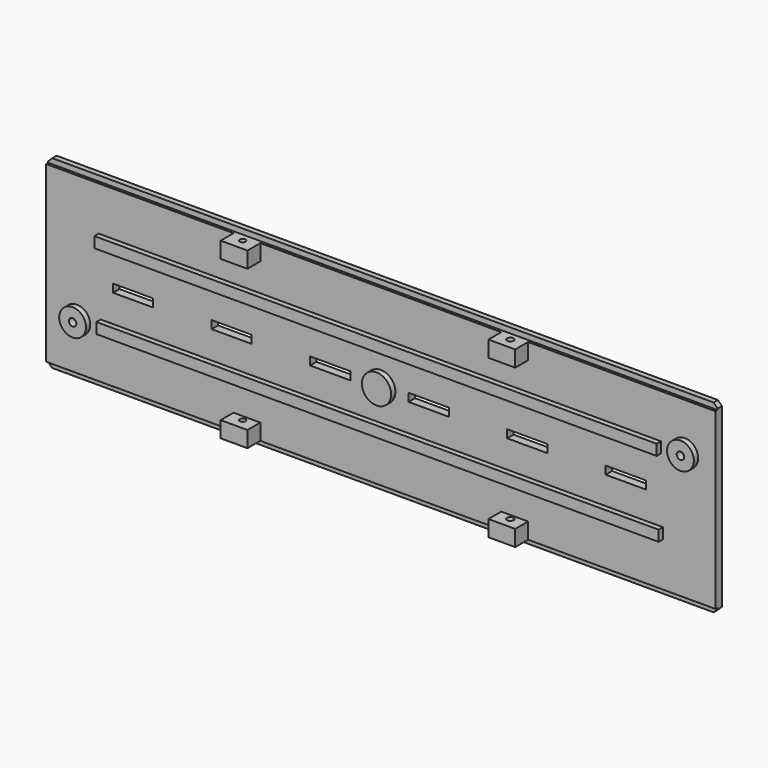
from build123d import *

# Parameters (mm, degrees)
SKETCH007_W            = 250
SKETCH007_H            = 65
PAD004_DEPTH           = 3
SKETCH015_R            = 1.4
POCKET007_DEPTH        = 5
SKETCH032_W            = 10
SKETCH032_H            = 8
PAD011_DEPTH           = 6
SKETCH033_R            = 1.228205
SKETCH033_R_2          = 1.080341
POCKET017_DEPTH        = 65.001
SKETCH036_R            = 5
SKETCH036_R_2          = 1.4
SKETCH036_R_3          = 5.456257
SKETCH036_W            = 210
SKETCH036_H            = 4
PAD013_DEPTH           = 2
SKETCH037_W            = 15
SKETCH037_H            = 3
POCKET019_DEPTH        = 5
LINEARPATTERN002_COUNT = 6
LINEARPATTERN002_PITCH = 36.8
SKETCH044_W            = 2
SKETCH044_H            = 2
PAD017_DEPTH           = 250
CHAMFER025_SIZE        = 1.5


with BuildPart() as part:
    # Sketch007 → Pad004 (new body)
    with BuildSketch(Plane.XZ):
        Rectangle(SKETCH007_W, SKETCH007_H)
    extrude(amount=PAD004_DEPTH)

    # Sketch015 (on Face5 of Pad004) → Pocket007 (cut)
    with BuildSketch(Plane(origin=(0, 0, 0), x_dir=(1, 0, 0), z_dir=(0, 1, 0))):
        with Locations((-113.5, 15)):
            Circle(SKETCH015_R)
        with Locations((113.5, -15)):
            Circle(SKETCH015_R)
    extrude(amount=-POCKET007_DEPTH, mode=Mode.SUBTRACT)

    # Sketch032 (on Face1 of Pocket007) → Pad011 (join)
    with BuildSketch(Plane(origin=(0, 0, 32.5), x_dir=(-1, 0, 0), z_dir=(0, 0, 1))):
        with Locations((-50, 5)):
            Rectangle(SKETCH032_W, SKETCH032_H)
        with Locations((50, 5)):
            Rectangle(SKETCH032_W, SKETCH032_H)
    pad011 = extrude(amount=-PAD011_DEPTH)

    # Mirrored: Pad011 across XY
    add(pad011.mirror(Plane.XY))

    # Sketch033 (on Face23 of Mirrored) → Pocket017 (cut, through all)
    with BuildSketch(Plane(origin=(0, 0, 32.5), x_dir=(-1, 0, 0), z_dir=(0, 0, 1))):
        with Locations((-50, 5)):
            Circle(SKETCH033_R)
        with Locations((50, 5)):
            Circle(SKETCH033_R_2)
    extrude(amount=-POCKET017_DEPTH, mode=Mode.SUBTRACT)

    # Sketch036 (on Face4 of Pocket017) → Pad013 (join)
    with BuildSketch(Plane.XZ.offset(3)):
        with Locations((-113.49704, -14.99673)):
            Circle(SKETCH036_R)
        with Locations((-113.49704, -14.99673)):
            Circle(SKETCH036_R_2, mode=Mode.SUBTRACT)
        with Locations((113.510239, 14.966872)):
            Circle(SKETCH036_R)
        with Locations((113.510239, 14.966872)):
            Circle(SKETCH036_R_2, mode=Mode.SUBTRACT)
        Circle(SKETCH036_R_3)
        with Locations((-0.3682397708, 14)):
            Rectangle(SKETCH036_W, SKETCH036_H)
        with Locations((0.3682397708, -14)):
            Rectangle(SKETCH036_W, SKETCH036_H)
    extrude(amount=PAD013_DEPTH)

    # Sketch037 (on Face4 of Pad013) → Pocket019 (cut)
    with BuildSketch(Plane.XZ.offset(3)):
        with Locations((-92.5, -0.19377)):
            Rectangle(SKETCH037_W, SKETCH037_H)
    pocket019 = extrude(amount=-POCKET019_DEPTH, mode=Mode.SUBTRACT)

    # LinearPattern002: Pocket019 ×6
    with Locations(*[(i * LINEARPATTERN002_PITCH, 0, 0) for i in range(1, LINEARPATTERN002_COUNT)]):
        add(pocket019, mode=Mode.SUBTRACT)

    # Sketch044 (on Face7 of MultiTransform001) → Pad017 (join)
    with BuildSketch(Plane(origin=(-125, 0, 0), x_dir=(0, 0, -1), z_dir=(-1, 0, 0))):
        with Locations((-33.5, 1)):
            Rectangle(SKETCH044_W, SKETCH044_H)
    pad017 = extrude(amount=-PAD017_DEPTH)

    # Mirrored003: Pad017 across Sketch044 V_Axis
    add(pad017.mirror(Plane(origin=(-125, 0, 0), x_dir=(-1, 0, 0), z_dir=(0, 0, -1))))

    # Chamfer025
    chamfer025_edges = [part.edges().sort_by_distance(p)[0] for p in [
        (125, -1, -34.5),
        (125, -1, 34.5),
        (-125, -1, 34.5),
        (-125, -1, -34.5),
    ]]
    chamfer(chamfer025_edges, length=CHAMFER025_SIZE)


with BuildPart() as part_1:
    # Body003 placement: moved
    add(part.part.moved(Location((0, 80, 0))))


solid = part_1.part
